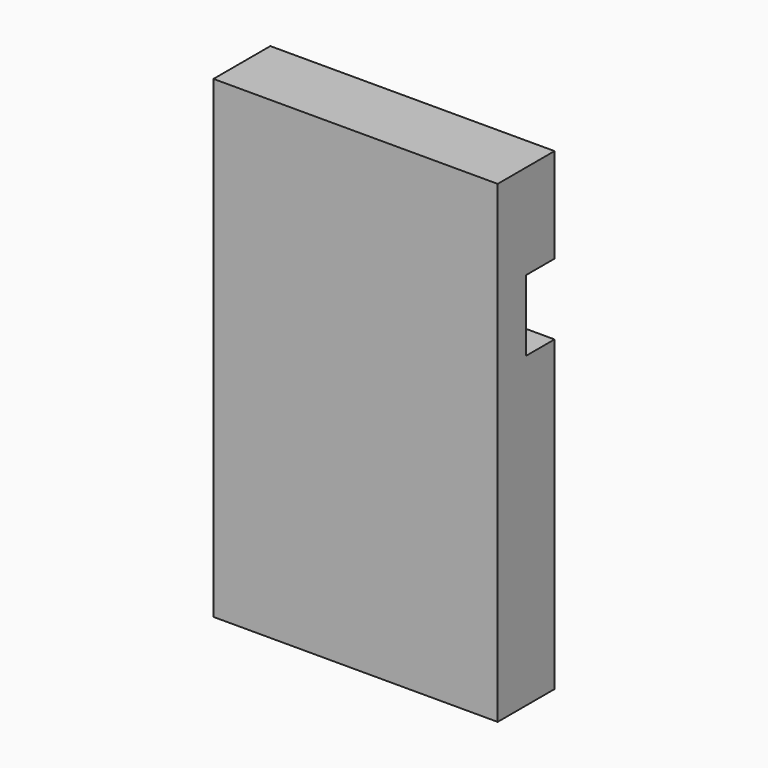
from build123d import *

# Parameters (mm, degrees)
F1_DEPTH = 76.2


with BuildPart() as f1:
    # F0 (on Right) → F1 (new body)
    with BuildSketch(Plane.YZ):
        Polygon((0, 127), (0, 0), (19.05, 0), (19.05, 82.55), (9.525, 82.55), (9.525, 101.6), (19.05, 101.6), (19.05, 105.869003), (19.05, 127), align=None)
    extrude(amount=F1_DEPTH)


solid = f1.part
